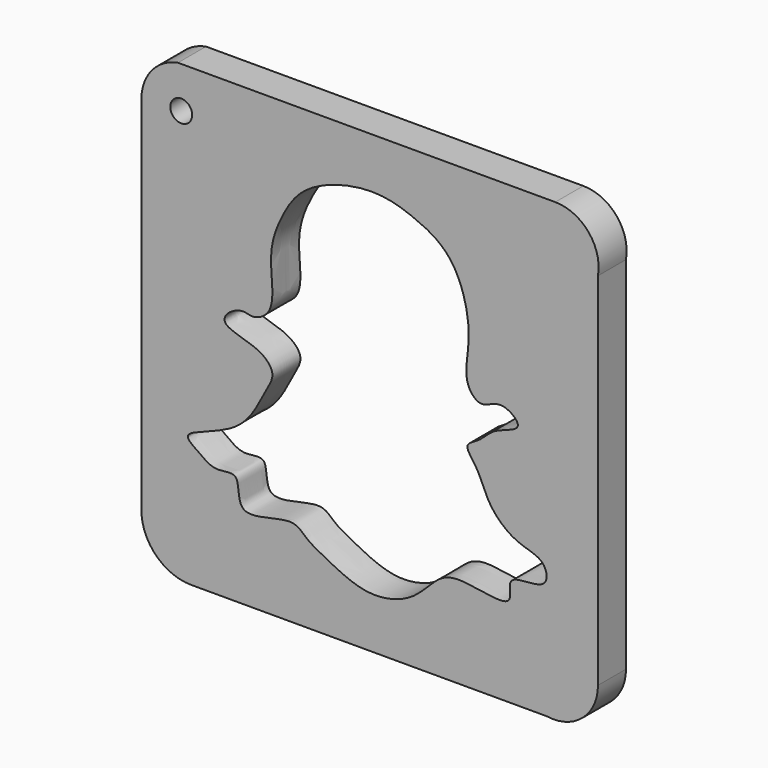
from build123d import *

# Parameters (mm, degrees)
F1_DEPTH = 8
F3_D     = 5


with BuildPart() as f1:
    # F0 (on Front) → F1 (new body)
    with BuildSketch(Plane.XZ):
        with BuildLine():
            ThreePointArc((-43.5323938727, 42.7109673619), (-49.5243063362, 39.2152762633), (-51.8870837986, 32.6929949224))
            Line((-51.8870837986, 32.6929949224), (-51.8870837986, -49.6168099344))
            ThreePointArc((-51.8870837986, -49.6168099344), (-48.6526643256, -57.8325076803), (-40.5153334141, -61.2593144178))
            Line((-40.5153334141, -61.2593144178), (40.7114475965, -61.2593144178))
            ThreePointArc((40.7114475965, -61.2593144178), (48.8307055122, -58.9209838271), (52.3539483547, -51.2413419783))
            Line((52.3539483547, -51.2413419783), (52.3539483547, 31.0684610158))
            ThreePointArc((52.3539483547, 31.0684610158), (50.1987739858, 39.1656091037), (42.6067374647, 42.7109673619))
            Line((42.6067374647, 42.7109673619), (-37.2662618756, 42.7109673619))
            Line((-37.2662618756, 42.7109673619), (-43.5323938727, 42.7109673619))
        make_face()
        with BuildLine():
            add(Edge.make_bspline(
                [(-22.5615892559, 0), (-21.3911617421, 2.6175522637), (-23.3536618235, 11.199298747), (-19.9182922171, 19.8062855277), (-14.8188603544, 28.0611726022), (0.1547600456, 32.5083814797), (10.8092859467, 29.2387708881), (20.121081435, 24.2002526085), (24.0696775051, 9.7475746365), (21.1534051764, 0.3414059573), (25.6974660775, -4.7204960252), (29.9716751417, -0.6439903089), (36.5123012054, -5.7470919981), (28.3050917651, -7.138124182), (25.7594282815, -10.9205748376), (21.2205186015, -12.5363322513), (25.3036364453, -16.7176846109), (27.0526315022, -23.2139608126), (33.5589416708, -29.0370131645), (40.4595796572, -29.5920620416), (41.374624982, -36.7001103193), (30.5273214091, -34.775077767), (33.980963887, -42.6547438982), (23.375363347, -40.3098019075), (16.3135464695, -40.0329011843), (10.7983642477, -48.104450628), (-0.1258034398, -50.9380026513), (-9.1490552339, -46.1919534868), (-14.4029040166, -43.5890370442), (-17.3296556516, -39.5952638966), (-30.9358603458, -45.5483676214), (-28.8409286417, -34.5265833982), (-35.1188470404, -36.9955192745), (-38.8380049521, -33.9555287661), (-43.831036056, -30.6688058869), (-28.3856047469, -27.7151278917), (-24.1943960372, -17.3541990859), (-20.9066818086, -12.7676199508), (-24.9643297697, -8.2876112523), (-33.5309034605, -7.0626693478), (-32.625984773, -3.7916092428), (-28.7939266867, -1.895828999), (-26.3140243684, -3.3379673388), (-23.3283879923, -1.7148740476), (-22.5615892559, 0)],
                knots=[0, 0, 0, 0, 0.0302400115, 0.0582915106, 0.0862278903, 0.121406469, 0.1519793899, 0.180941293, 0.2155167479, 0.2440997782, 0.2637957079, 0.2838464906, 0.303841766, 0.3254958454, 0.3463289453, 0.3630004588, 0.3819720298, 0.4064586012, 0.4330783166, 0.4562003176, 0.4746739882, 0.4997085183, 0.5182757229, 0.5444014353, 0.5691273153, 0.5963852565, 0.6262642909, 0.6553250579, 0.6772519233, 0.6962234884, 0.7263051238, 0.7488662498, 0.7680095248, 0.7888917431, 0.8049892583, 0.836659646, 0.8678858467, 0.8877307639, 0.9084978336, 0.9341175102, 0.9472465101, 0.9653310387, 0.9801884334, 1, 1, 1, 1], degree=3))
        make_face(mode=Mode.SUBTRACT)
    extrude(amount=F1_DEPTH)

    # F3 (through all)
    with Locations(Plane.XZ.offset(8)):
        with Locations((-42.7889755816, 33.2590796727)):
            Hole(F3_D / 2)


solid = f1.part
